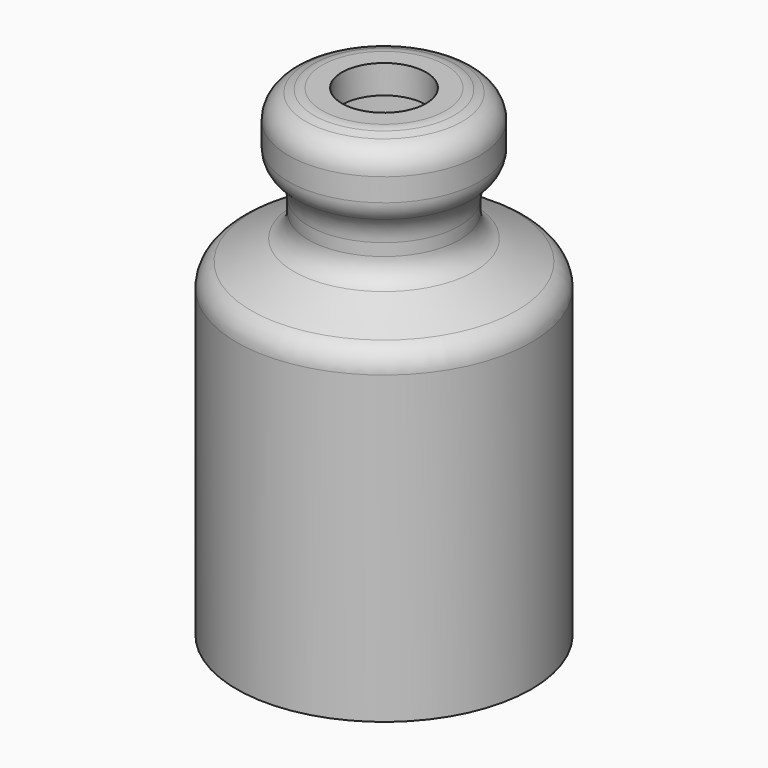
from build123d import *

# Parameters (mm, degrees)
F2_R     = 29.0619691873
F3_DEPTH = 25.4
F3_TAPER = 9


with BuildPart() as f1:
    # F0 (on Front) → F1 (revolve)
    with BuildSketch(Plane.XZ):
        with BuildLine():
            Line((0, -54.2868673801), (0, -59.3368075788))
            Line((0, -59.3368075788), (36.2964496017, -59.3368075788))
            Line((36.2964496017, -59.3368075788), (36.2964496017, 15.8962156939))
            ThreePointArc((36.2964496017, 15.8962156939), (35.3239271738, 19.2733794389), (32.704249614, 21.6160967321))
            Line((32.704249614, 21.6160967321), (22.213858894, 26.673964101))
            ThreePointArc((22.213858894, 26.673964101), (19.5941813342, 29.0166813942), (18.6216589063, 32.3938451392))
            Line((18.6216589063, 32.3938451392), (18.6216589063, 35.4099501087))
            ThreePointArc((18.6216589063, 35.4099501087), (19.3680111144, 38.9754936355), (21.4817490394, 41.9423529589))
            Line((21.4817490394, 41.9423529589), (21.4989817051, 41.9582600337))
            ThreePointArc((21.4989817051, 41.9582600337), (23.0087945086, 44.0774452647), (23.5419032287, 46.6242620695))
            Line((23.5419032287, 46.6242620695), (23.5419032287, 52.2700477087))
            ThreePointArc((23.5419032287, 52.2700477087), (22.3672913065, 55.9494305706), (19.2780108683, 58.2676017865))
            Line((19.2780108683, 58.2676017865), (17.2958964737, 58.9570334994))
            ThreePointArc((17.2958964737, 58.9570334994), (16.2676242669, 59.2207479989), (15.2097888341, 59.3094794216))
            Line((15.2097888341, 59.3094794216), (10.3785684332, 59.3094794216))
            Line((10.3785684332, 59.3094794216), (10.3785684332, 52.2726279854))
            Line((10.3785684332, 52.2726279854), (15.3608239493, 52.2726279854))
            ThreePointArc((15.3608239493, 52.2726279854), (15.4625602212, 52.2605955976), (15.5586827175, 52.2251623776))
            Line((15.5586827175, 52.2251623776), (19.3302655912, 50.3050828819))
            ThreePointArc((19.3302655912, 50.3050828819), (19.5042180311, 50.1443663132), (19.5685233921, 49.9164319207))
            Line((19.5685233921, 49.9164319207), (19.5685233921, 43.7994402113))
            ThreePointArc((19.5685233921, 43.7994402113), (19.5131164954, 43.5867013875), (19.3609742625, 43.4280178272))
            Line((19.3609742625, 43.4280178272), (18.4874300125, 42.890452562))
            ThreePointArc((18.4874300125, 42.890452562), (16.2721892999, 40.5799679818), (15.4654467478, 37.4824210708))
            Line((15.4654467478, 37.4824210708), (15.4654467478, 28.5112547745))
            ThreePointArc((15.4654467478, 28.5112547745), (16.4017538523, 25.1924554083), (18.9345583173, 22.8523695618))
            Line((18.9345583173, 22.8523695618), (29.3555015844, 17.5471594781))
            ThreePointArc((29.3555015844, 17.5471594781), (31.8883060494, 15.2070736315), (32.8246131539, 11.8882742653))
            Line((32.8246131539, 11.8882742653), (32.8246131539, -54.2868673801))
            Line((32.8246131539, -54.2868673801), (0, -54.2868673801))
        make_face()
    revolve(axis=Axis((0, 0, -3.5320897967), (0, 0, -1)))

    # F2 (on face) → F3 (cut)
    with BuildSketch(Plane(origin=(0, 0, -59.3368075788), x_dir=(1, 0, 0), z_dir=(0, 0, -1))):
        Circle(F2_R)
    extrude(amount=-F3_DEPTH, taper=F3_TAPER, mode=Mode.SUBTRACT)


solid = f1.part
